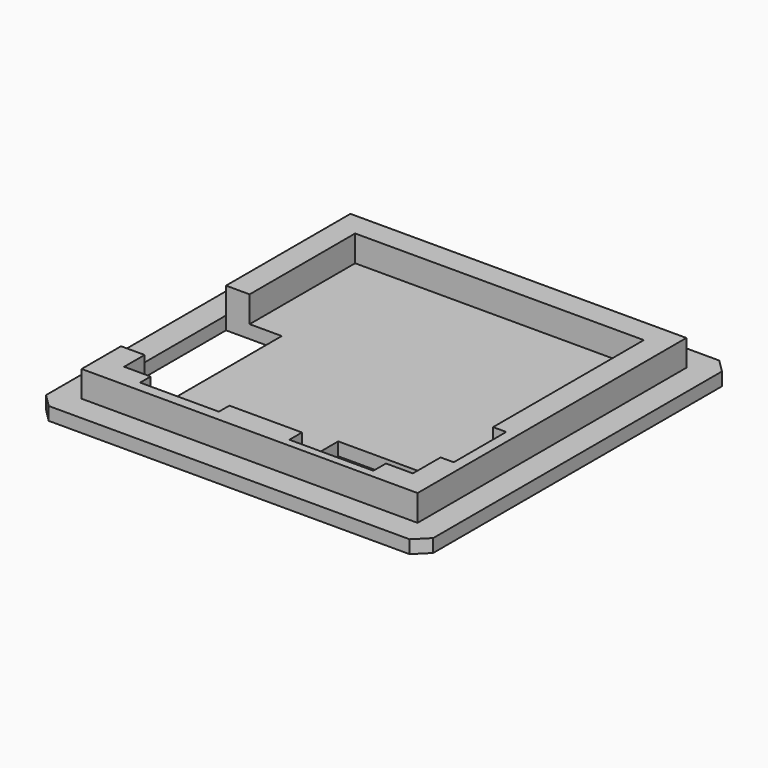
from build123d import *

# Parameters (mm, degrees)
F1_DEPTH = 3.5
F0_W     = 29.5
F0_H     = 29.5
F2_DEPTH = 1
F3_SIZE  = 1
F5_DEPTH = 2.5
F6_W     = 1
F6_H     = 5
F6_W_2   = 6
F6_H_2   = 1
F7_DEPTH = 1.5
F8_DEPTH = 0.5


with BuildPart() as f1:
    # F0 (on Top) → F1 (new body)
    with BuildSketch(Plane.XY):
        Polygon((12.8, -12.8), (12.8, 12.8), (-12.8, 12.8), (-12.8, 0.95), (-8.65, 0.95), (-8.55, 0.95), (-8.55, -9.05), (-8.65, -9.05), (-12.8, -9.05), (-12.8, -12.8), align=None)
        Polygon((2.55, -7.55), (8.95, -7.55), (8.95, -12.2), (2.55, -12.2), (2.55, -7.642402336), align=None, mode=Mode.SUBTRACT)
    extrude(amount=F1_DEPTH)

    # F0 (on Top) → F2 (join)
    with BuildSketch(Plane.XY):
        Rectangle(F0_W, F0_H)
        Polygon((-12.8, 12.8), (12.8, 12.8), (12.8, -12.8), (-12.8, -12.8), (-12.8, -9.05), (-12.8, 0.95), align=None, mode=Mode.SUBTRACT)
    extrude(amount=F2_DEPTH)

    # F3
    f3_edges = [f1.edges().sort_by_distance(p)[0] for p in [
        (14.75, 14.75, 0.5),
        (14.75, -14.75, 0.5),
        (-14.75, -14.75, 0.5),
        (-14.75, 14.75, 0.5),
    ]]
    chamfer(f3_edges, length=F3_SIZE)

    # F4 (on face) → F5 (cut)
    with BuildSketch(Plane.XY.offset(3.5)):
        Polygon((11, -11), (11, 11), (-11, 11), (-11, 0.95), (-8.55, 0.95), (-8.55, -9.05), (-11, -9.05), (-11, -11), (2.55, -11), (2.55, -7.55), (8.95, -7.55), (8.95, -11), align=None)
    extrude(amount=-F5_DEPTH, mode=Mode.SUBTRACT)

    # F6 (on face) → F7 (cut)
    with BuildSketch(Plane.XY.offset(3.5)):
        with Locations((11.5, -5.8585465327)):
            Rectangle(F6_W, F6_H)
        with Locations((-5.983454667, -11.5)):
            Rectangle(F6_W_2, F6_H_2)
    extrude(amount=-F7_DEPTH, mode=Mode.SUBTRACT)

    # F8 (cut): a face of the model
    f8_faces = [f1.faces().sort_by_distance(p)[0] for p in [
        (-12.437961328, -10.925, 3.5),
    ]]
    extrude(f8_faces, amount=-F8_DEPTH, mode=Mode.SUBTRACT)


solid = f1.part
